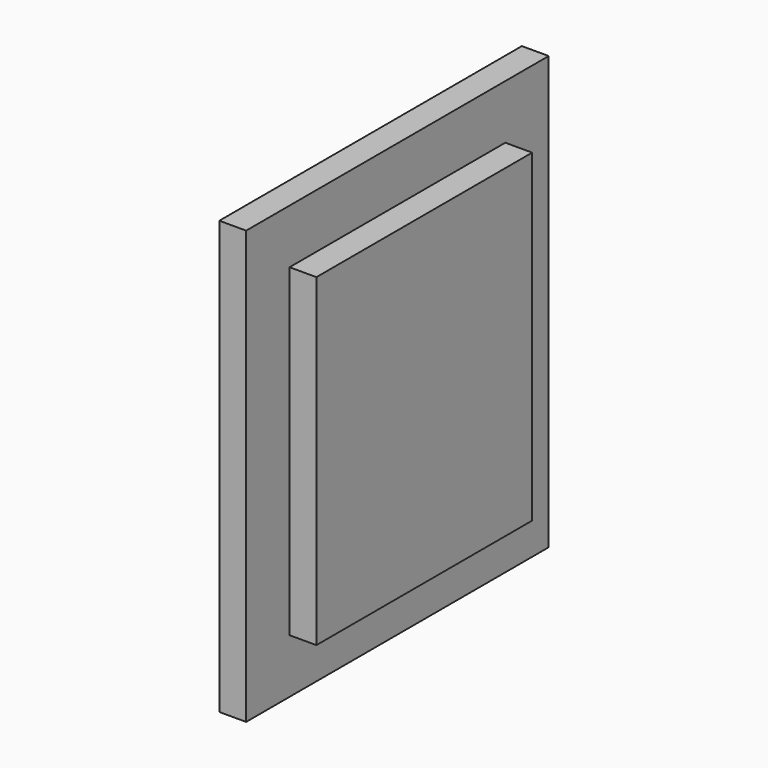
from build123d import *

# Parameters (mm, degrees)
F0_W     = 127
F0_H     = 145.2372
F1_DEPTH = 18.034
F2_W     = 127
F2_H     = 145.2372
F2_W_2   = 90.551
F2_H_2   = 108.7882
F3_DEPTH = 9.017


with BuildPart() as f1:
    # F0 (on Right) → F1 (new body)
    with BuildSketch(Plane.YZ):
        with Locations((63.5, 72.6186)):
            Rectangle(F0_W, F0_H)
    extrude(amount=F1_DEPTH)

    # F2 (on face) → F3 (cut)
    with BuildSketch(Plane.YZ.offset(18.034)):
        with Locations((63.5, 72.6186)):
            Rectangle(F2_W, F2_H)
        with Locations((63.5, 72.6186)):
            Rectangle(F2_W_2, F2_H_2, mode=Mode.SUBTRACT)
    extrude(amount=-F3_DEPTH, mode=Mode.SUBTRACT)


solid = f1.part
